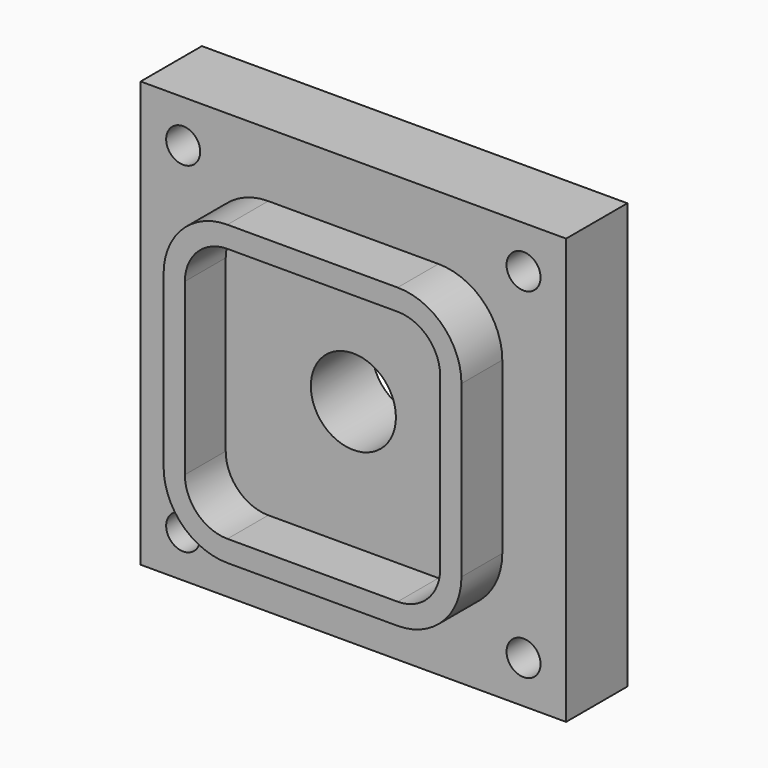
from build123d import *

# Parameters (mm, degrees)
F0_W     = 100
F0_H     = 100
F0_R     = 4
F1_DEPTH = 18
F3_DEPTH = 12
F4_R     = 10
F5_DEPTH = 30


with BuildPart() as f1:
    # F0 (on Front) → F1 (new body)
    with BuildSketch(Plane.XZ):
        Rectangle(F0_W, F0_H)
        with Locations((-40, -40)):
            Circle(F0_R, mode=Mode.SUBTRACT)
        with Locations((40, -40)):
            Circle(F0_R, mode=Mode.SUBTRACT)
        with Locations((-40, 40)):
            Circle(F0_R, mode=Mode.SUBTRACT)
        with Locations((40, 40)):
            Circle(F0_R, mode=Mode.SUBTRACT)
    extrude(amount=F1_DEPTH)

    # F2 (on face) → F3 (join)
    with BuildSketch(Plane.XZ.offset(18)):
        with BuildLine():
            Line((20, 35), (-20, 35))
            ThreePointArc((-20, 35), (-30.606602, 30.606602), (-35, 20))
            Line((-35, 20), (-35, -20))
            ThreePointArc((-35, -20), (-30.606602, -30.606602), (-20, -35))
            Line((-20, -35), (20, -35))
            ThreePointArc((20, -35), (30.606602, -30.606602), (35, -20))
            Line((35, -20), (35, 20))
            ThreePointArc((35, 20), (30.606602, 30.606602), (20, 35))
        make_face()
        with BuildLine():
            ThreePointArc((-30, 20), (-27.071068, 27.071068), (-20, 30))
            Line((-20, 30), (20, 30))
            ThreePointArc((20, 30), (27.071068, 27.071068), (30, 20))
            Line((30, 20), (30, -20))
            ThreePointArc((30, -20), (27.071068, -27.071068), (20, -30))
            Line((20, -30), (-20, -30))
            ThreePointArc((-20, -30), (-27.071068, -27.071068), (-30, -20))
            Line((-30, -20), (-30, 20))
        make_face(mode=Mode.SUBTRACT)
    extrude(amount=F3_DEPTH)

    # F4 (on face) → F5 (cut)
    with BuildSketch(Plane.XZ.offset(18)):
        Circle(F4_R)
    extrude(amount=-F5_DEPTH, mode=Mode.SUBTRACT)


solid = f1.part
